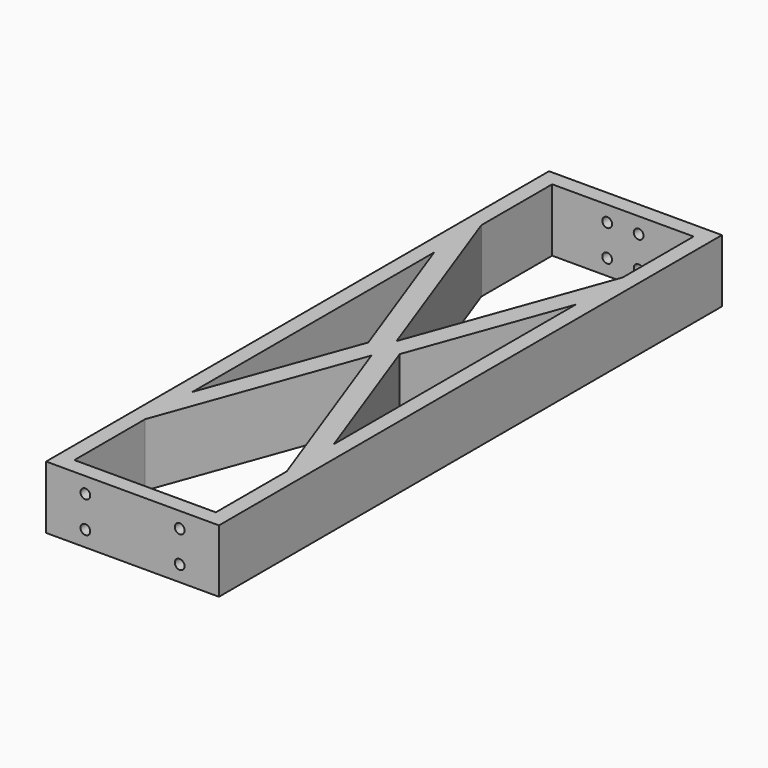
from build123d import *

# Parameters (mm, degrees)
SKETCH_W        = 55
SKETCH_H        = 200
PAD_DEPTH       = 20
POCKET_DEPTH    = 20
SKETCH002_R     = 1.55
POCKET001_DEPTH = 5
SKETCH003_R     = 1.55
POCKET002_DEPTH = 5


with BuildPart() as part:
    # Sketch → Pad (new body)
    with BuildSketch(Plane.XY):
        Rectangle(SKETCH_W, SKETCH_H)
    extrude(amount=PAD_DEPTH)

    # Sketch001 (on Face6 of Pad) → Pocket (cut)
    with BuildSketch(Plane.XY.offset(20)):
        Polygon((-22.5, -95), (22.5, -95), (22.5, -66.818242), (0, -5), (-22.5, -66.818242), align=None)
        Polygon((-22.5, 95), (22.5, 95), (22.5, 66.818242), (0, 5), (-22.5, 66.818242), align=None)
        Polygon((-5, 0), (-22.5, -48.080855), (-22.5, 48.080855), align=None)
        Polygon((5, 0), (22.5, 48.080855), (22.5, -48.080855), align=None)
    extrude(amount=-POCKET_DEPTH, mode=Mode.SUBTRACT)

    # Sketch002 (on Face3 of Pocket) → Pocket001 (cut)
    with BuildSketch(Plane(origin=(0, 100, 0), x_dir=(-1, 0, 0), z_dir=(0, 1, 0))):
        with Locations((-5, 15)):
            Circle(SKETCH002_R)
        with Locations((5, 15)):
            Circle(SKETCH002_R)
        with Locations((5, 5)):
            Circle(SKETCH002_R)
        with Locations((-5, 5)):
            Circle(SKETCH002_R)
    extrude(amount=-POCKET001_DEPTH, mode=Mode.SUBTRACT)

    # Sketch003 (on Face2 of Pocket001) → Pocket002 (cut)
    with BuildSketch(Plane.XZ.offset(100)):
        with Locations((-15, 15)):
            Circle(SKETCH003_R)
        with Locations((15, 15)):
            Circle(SKETCH003_R)
        with Locations((15, 5)):
            Circle(SKETCH003_R)
        with Locations((-15, 5)):
            Circle(SKETCH003_R)
    extrude(amount=-POCKET002_DEPTH, mode=Mode.SUBTRACT)


solid = part.part
